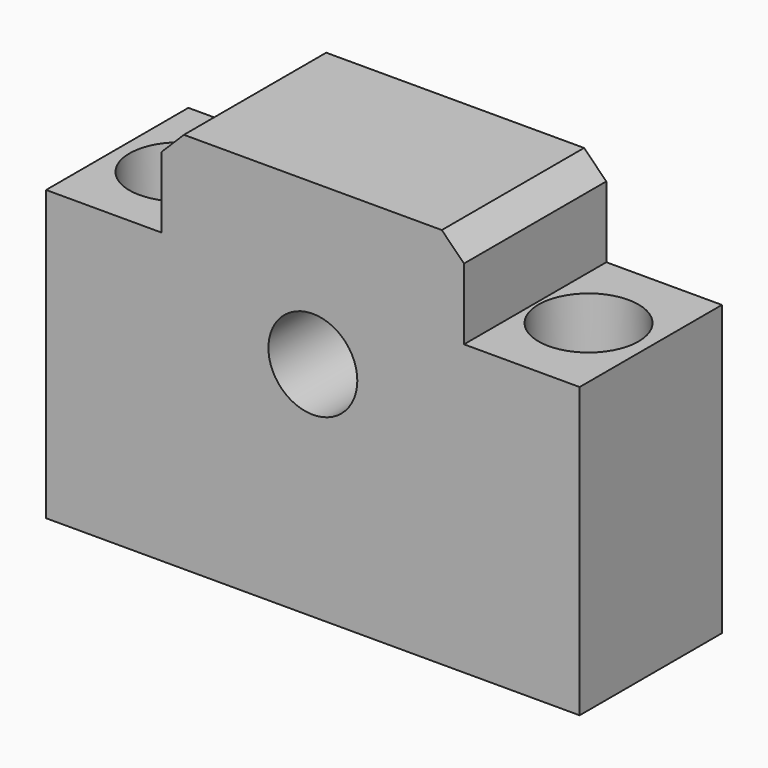
from build123d import *

# Parameters (mm, degrees)
F0_R           = 5
F1_DEPTH       = 20
F3_D           = 6.3
F3_CBORE_D     = 11.25
F3_CBORE_DEPTH = 6
F4_SIZE        = 2.5


with BuildPart() as f1:
    # F0 (on Front) → F1 (new body)
    with BuildSketch(Plane.XZ):
        Polygon((-30, 16.25), (-30, -16.25), (30, -16.25), (30, 16.25), (17, 16.25), (17, 26.75), (-17, 26.75), (-17, 16.25), align=None)
        with Locations((0, 8.75)):
            Circle(F0_R, mode=Mode.SUBTRACT)
    extrude(amount=F1_DEPTH)

    # F3 (through all)
    with Locations(Plane.XY.offset(16.25)):
        with Locations((23, -10), (-23, -10)):
            CounterBoreHole(F3_D / 2, F3_CBORE_D / 2, F3_CBORE_DEPTH)

    # F4
    f4_edges = [f1.edges().sort_by_distance(p)[0] for p in [
        (17, -10, 26.75),
        (-17, -10, 26.75),
    ]]
    chamfer(f4_edges, length=F4_SIZE)


solid = f1.part
